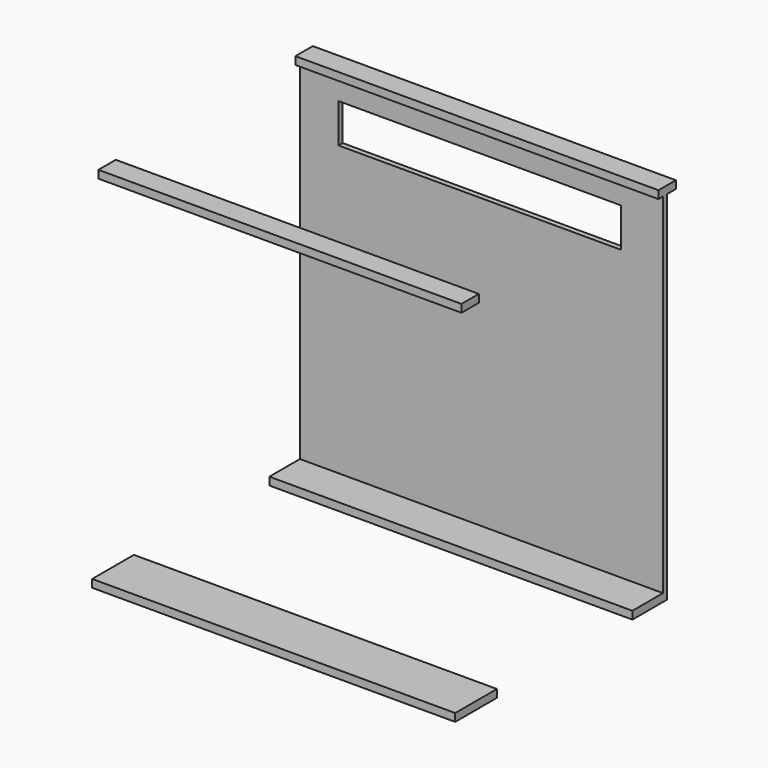
from build123d import *

# Parameters (mm, degrees)
F0_W     = 50
F0_H     = 18
F0_W_2   = 120
F0_W_3   = 12
F0_H_2   = 804
F1_DEPTH = 836
F2_W     = 650
F2_H     = 90
F3_DEPTH = 12


with BuildPart() as f1:
    # F0 (on Right) → F1 (new body)
    with BuildSketch(Plane.YZ):
        with Locations((-274.5, 411)):
            Rectangle(F0_W, F0_H)
        with Locations((-257.5, -411)):
            Rectangle(F0_W_2, F0_H)
        with Locations((286.5, 0)):
            Rectangle(F0_W_3, F0_H_2)
        Polygon((292.5, -402), (280.5, -402), (192.5, -402), (192.5, -420), (292.5, -420), align=None)
        Polygon((267.5, 402), (280.5, 402), (292.5, 402), (317.5, 402), (317.5, 420), (267.5, 420), align=None)
    extrude(amount=F1_DEPTH)

    # F2 (on face) → F3 (cut)
    with BuildSketch(Plane.XZ.offset(-280.5)):
        with Locations((414, 307.5)):
            Rectangle(F2_W, F2_H)
    extrude(amount=-F3_DEPTH, mode=Mode.SUBTRACT)


solid = f1.part
